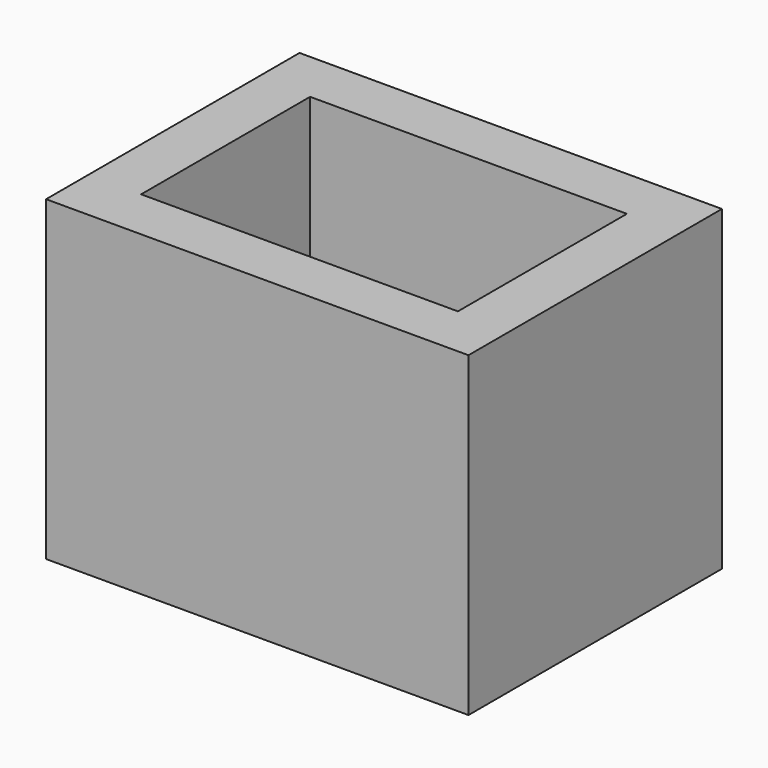
from build123d import *

# Parameters (mm, degrees)
F0_W     = 80
F0_H     = 60
F0_W_2   = 60
F0_H_2   = 40
F1_DEPTH = 30


with BuildPart() as f1:
    # F0 (on Top) → F1 (new body, symmetric)
    with BuildSketch(Plane.XY):
        with Locations((40, 30)):
            Rectangle(F0_W, F0_H)
        with Locations((40, 30)):
            Rectangle(F0_W_2, F0_H_2, mode=Mode.SUBTRACT)
    extrude(amount=F1_DEPTH, both=True)


solid = f1.part
